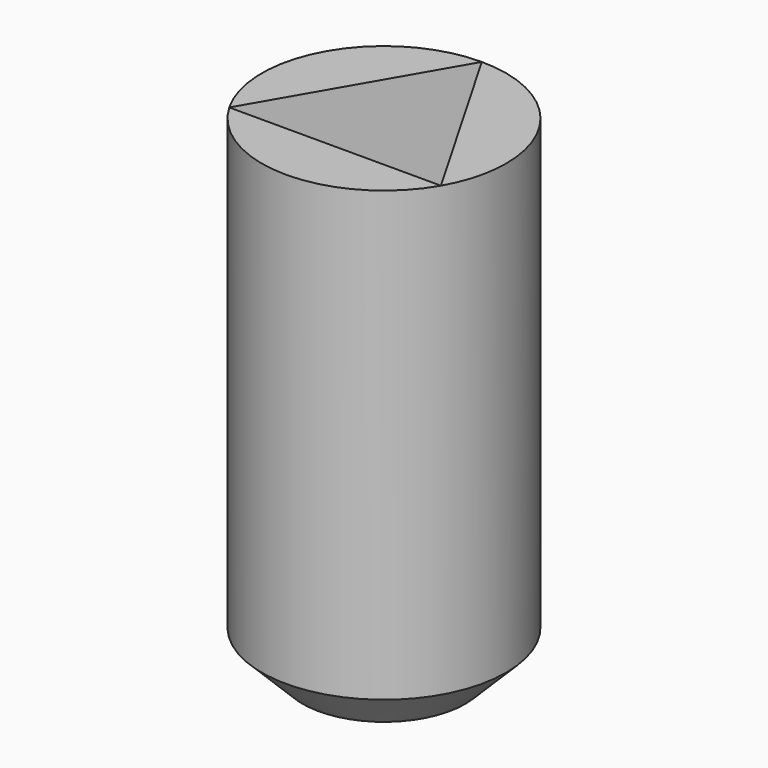
from build123d import *

# Parameters (mm, degrees)
SKETCH008_R     = 6
PAD002_DEPTH    = 24
POCKET_DEPTH    = 20
CHAMFER001_SIZE = 2


with BuildPart() as part:
    # Sketch008 → Pad002 (new body)
    with BuildSketch(Plane.XY.offset(18)):
        Circle(SKETCH008_R)
    extrude(amount=PAD002_DEPTH)

    # Sketch007 (on Face3 of Pad002) → Pocket (cut)
    with BuildSketch(Plane.XY.offset(42)):
        Polygon((5.195447, -3.001222), (0.001411, 6), (-5.196858, -2.998778), align=None)
    extrude(amount=-POCKET_DEPTH, mode=Mode.SUBTRACT)

    # Chamfer001
    chamfer001_edges = [part.edges().sort_by_distance(p)[0] for p in [
        (-6, 0, 18),
    ]]
    chamfer(chamfer001_edges, length=CHAMFER001_SIZE)


solid = part.part
